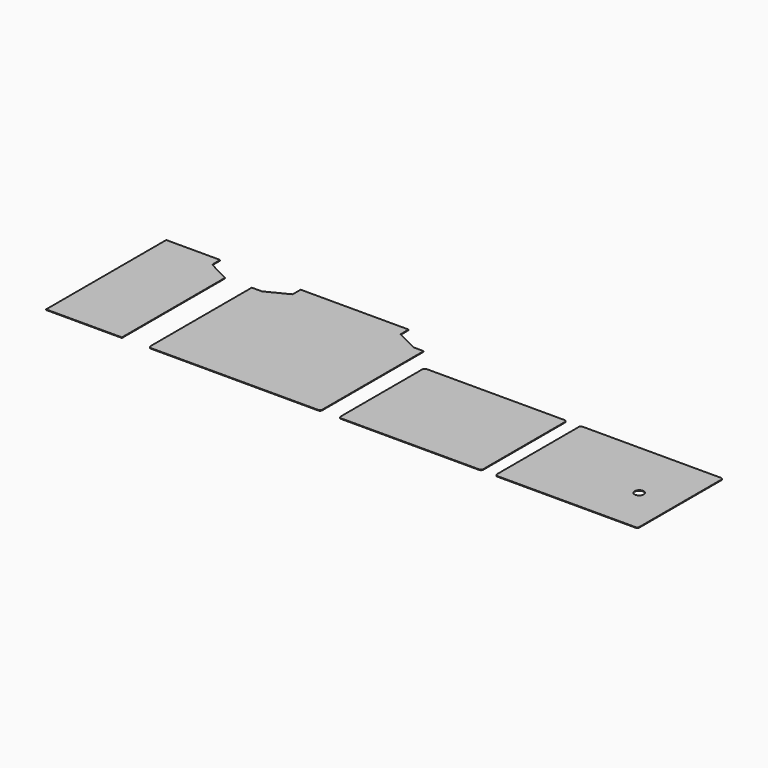
from build123d import *

# Parameters (mm, degrees)
F0_R     = 12.5
F1_DEPTH = 1.6002


with BuildPart() as f1:
    # F0 (on Top) → F1 (new body)
    with BuildSketch(Plane.XY):
        with BuildLine():
            ThreePointArc((419.4, 288.65), (417.540128, 293.140128), (413.05, 295))
            Line((413.05, 295), (31.75, 295))
            ThreePointArc((31.75, 295), (27.259872, 293.140128), (25.4, 288.65))
            Line((25.4, 288.65), (25.4, 6.35))
            ThreePointArc((25.4, 6.35), (27.259872, 1.859872), (31.75, 0))
            Line((31.75, 0), (413.05, 0))
            ThreePointArc((413.05, 0), (417.540128, 1.859872), (419.4, 6.35))
            Line((419.4, 6.35), (419.4, 288.65))
        make_face()
        with BuildLine():
            ThreePointArc((457.2, 6.35), (459.059872, 1.859872), (463.55, 0))
            Line((463.55, 0), (844.85, 0))
            ThreePointArc((844.85, 0), (849.340128, 1.859872), (851.2, 6.35))
            Line((851.2, 6.35), (851.2, 288.65))
            ThreePointArc((851.2, 288.65), (849.340128, 293.140128), (844.85, 295))
            Line((844.85, 295), (463.55, 295))
            ThreePointArc((463.55, 295), (459.059872, 293.140128), (457.2, 288.65))
            Line((457.2, 288.65), (457.2, 6.35))
        make_face()
        with Locations((751.2, 130)):
            Circle(F0_R, mode=Mode.SUBTRACT)
        with BuildLine():
            Line((-494.05, 0), (-31.75, 0))
            ThreePointArc((-31.75, 0), (-27.259872, 1.859872), (-25.4, 6.35))
            Line((-25.4, 6.35), (-25.4, 356.58))
            Line((-25.4, 356.58), (-53.34, 356.58))
            Line((-53.34, 356.58), (-113.675, 387.06))
            Line((-113.675, 387.06), (-113.675, 415))
            Line((-113.675, 415), (-412.125, 415))
            Line((-412.125, 415), (-412.125, 387.06))
            Line((-412.125, 387.06), (-472.46, 356.58))
            Line((-472.46, 356.58), (-500.4, 356.58))
            Line((-500.4, 356.58), (-500.4, 6.35))
            ThreePointArc((-500.4, 6.35), (-498.540128, 1.859872), (-494.05, 0))
        make_face()
        Polygon((-783.6027, 0), (-574.04, 0), (-574.04, 356.5906), (-634.375, 387.0706), (-634.375, 415.0106), (-783.6027, 415.0106), align=None)
    extrude(amount=F1_DEPTH)


solid = f1.part
